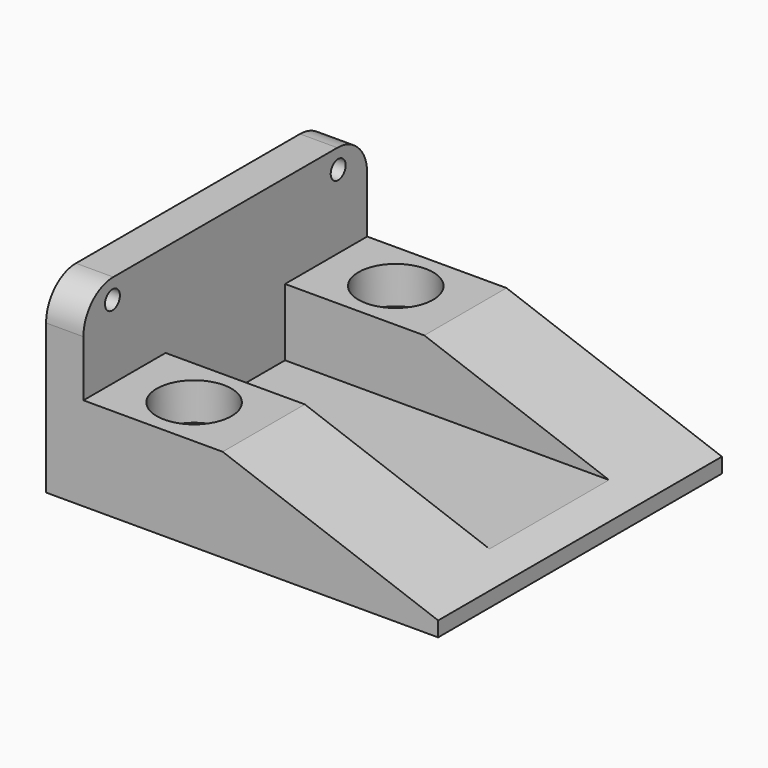
from build123d import *

# Parameters (mm, degrees)
F1_DEPTH  = 47.5
F2_W      = 86.76
F2_H      = 40
F3_DEPTH  = 18
F4_R      = 10
F5_R      = 2.5
F6_DEPTH  = 10
F8_D      = 20
F8_DEPTH  = 10
F8_TIP    = 6.0086061903
F9_R      = 2.5
F10_DEPTH = 25
F12_D     = 20
F12_DEPTH = 10
F12_TIP   = 6.0086061903
F13_R     = 2.5
F14_DEPTH = 25


with BuildPart() as f1:
    # F0 (on Front) → F1 (new body, symmetric)
    with BuildSketch(Plane.XZ):
        Polygon((-37.3029741915, -7.6123222187), (-47.3029741915, -7.6123222187), (-47.3029741915, -57.6123222187), (-37.3029741915, -57.6123222187), (-37.3029741915, -32.6123222187), align=None)
        Polygon((0, -32.6123222187), (-37.3029741915, -32.6123222187), (-37.3029741915, -57.6123222187), (57.6970258085, -57.6123222187), (57.6970258085, -53.6123222187), align=None)
    extrude(amount=F1_DEPTH, both=True)

    # F2 (on face) → F3 (cut)
    with BuildSketch(Plane.XY.offset(-32.6123222187)):
        with Locations((6.0770258085, 0)):
            Rectangle(F2_W, F2_H)
    extrude(amount=-F3_DEPTH, mode=Mode.SUBTRACT)

    # F4
    f4_edges = [f1.edges().sort_by_distance(p)[0] for p in [
        (-42.302974, -47.5, -7.612322),
        (-42.302974, 47.5, -7.612322),
    ]]
    fillet(f4_edges, radius=F4_R)

    # F5 (on face) → F6 (cut, through all)
    with BuildSketch(Plane.YZ.offset(-37.3029741915)):
        with Locations((-37.7820432186, -12.8668630496)):
            Circle(F5_R)
        with Locations((37.7820432186, -12.8668630496)):
            Circle(F5_R)
    extrude(amount=-F6_DEPTH, mode=Mode.SUBTRACT)

    # F8
    with Locations(Plane.XY.offset(-32.6123222187)):
        with Locations((-18.6514870957, -33.75)):
            Hole(F8_D / 2, depth=F8_DEPTH)
            with Locations((0, 0, -(F8_DEPTH + F8_TIP / 2))):  # 118° drill point
                Cone(0, F8_D / 2, F8_TIP, mode=Mode.SUBTRACT)

    # F9 (on face) → F10 (cut)
    with BuildSketch(Plane.XY.offset(-32.6123222187)):
        with Locations((-18.6514870957, -33.75)):
            Circle(F9_R)
    extrude(amount=-F10_DEPTH, mode=Mode.SUBTRACT)

    # F12
    with Locations(Plane.XY.offset(-32.6123222187)):
        with Locations((-18.6514870957, 33.75)):
            Hole(F12_D / 2, depth=F12_DEPTH)
            with Locations((0, 0, -(F12_DEPTH + F12_TIP / 2))):  # 118° drill point
                Cone(0, F12_D / 2, F12_TIP, mode=Mode.SUBTRACT)

    # F13 (on face) → F14 (cut)
    with BuildSketch(Plane.XY.offset(-32.6123222187)):
        with Locations((-19.2217435688, 34.2478714883)):
            Circle(F13_R)
    extrude(amount=-F14_DEPTH, mode=Mode.SUBTRACT)


solid = f1.part
